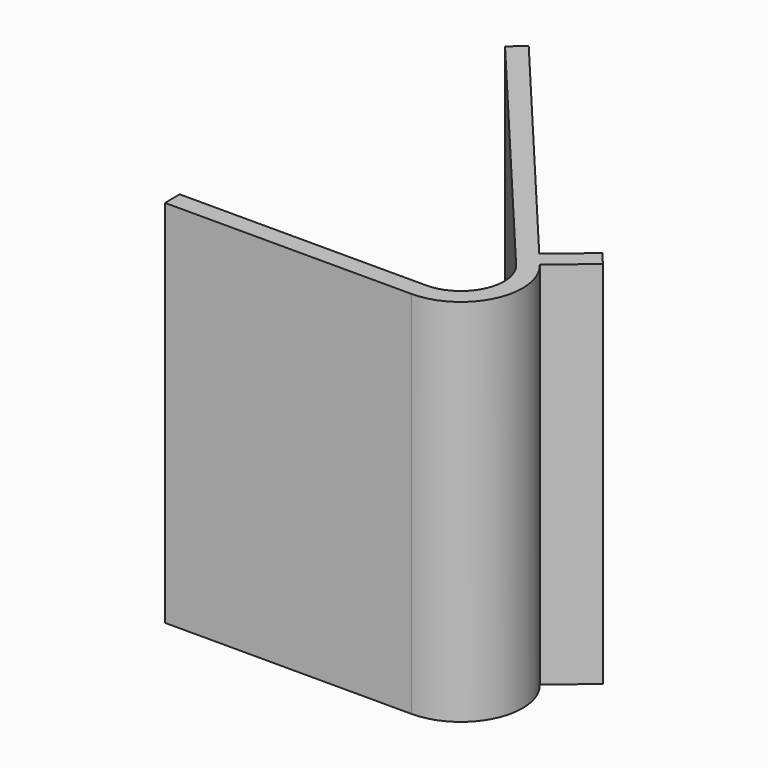
from build123d import *

# Parameters (mm, degrees)
F1_DEPTH = 152.4


with BuildPart() as f1:
    # F0 (on Top) → F1 (new body)
    with BuildSketch(Plane.XY):
        with BuildLine():
            Line((-114.31821, -32.882527), (-114.198142, -40.501581))
            Line((-114.198142, -40.501581), (-12.598142, -40.501581))
            ThreePointArc((-12.598142, -40.501581), (10.422075, -25.836085), (6.859386, 1.225224))
            Line((6.859386, 1.225224), (22.425409, 14.286668))
            Line((22.425409, 14.286668), (17.527368, 20.123927))
            Line((17.527368, 20.123927), (1.961345, 7.062483))
            Line((1.961345, 7.062483), (-91.101445, 117.970397))
            Line((-91.101445, 117.970397), (-96.938704, 113.072356))
            Line((-96.938704, 113.072356), (1.022921, -3.673763))
            ThreePointArc((1.022921, -3.673763), (3.516804, -22.61668), (-12.597349, -32.882527))
            Line((-12.597349, -32.882527), (-114.31821, -32.882527))
        make_face()
    extrude(amount=F1_DEPTH)


solid = f1.part
